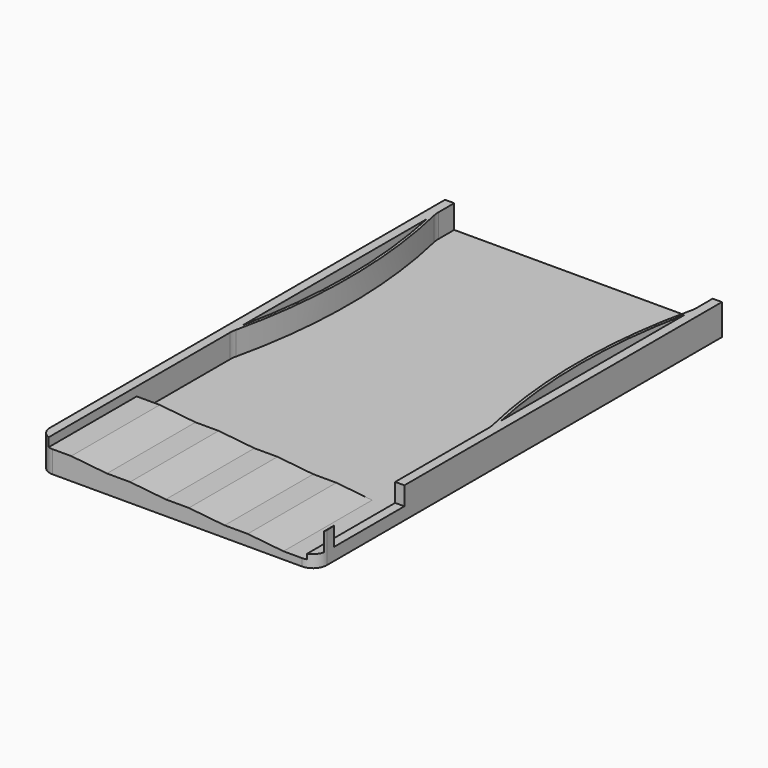
from build123d import *

# Parameters (mm, degrees)
F0_W      = 60
F0_H      = 110
F1_DEPTH  = 6.7
F2_W      = 56
F2_H      = 105
F3_DEPTH  = 5.1
F5_DEPTH  = 5.1
F6_R      = 3
F7_R      = 6
F9_DEPTH  = 19
F10_W     = 2
F10_H     = 19
F11_DEPTH = 4
F13_DEPTH = 25


with BuildPart() as f1:
    # F0 (on Top) → F1 (new body)
    with BuildSketch(Plane.XY):
        Rectangle(F0_W, F0_H)
    extrude(amount=F1_DEPTH)

    # F2 (on face) → F3 (cut)
    with BuildSketch(Plane.XY.offset(6.7)):
        with Locations((0, 2.5)):
            Rectangle(F2_W, F2_H)
    extrude(amount=-F3_DEPTH, mode=Mode.SUBTRACT)

    # F4 (on face) → F5 (join)
    with BuildSketch(Plane.XY.offset(1.6)):
        with BuildLine():
            Line((-28, -2.277589744), (-28, -5))
            ThreePointArc((-28, -5), (-24.8064638622, 22.5), (-28, 50))
            Line((-28, 50), (-28, 47.6836016319))
            ThreePointArc((-28, 47.6836016319), (-25.3710775237, 22.703005944), (-28, -2.277589744))
        make_face()
        with BuildLine():
            Line((28, 47.3302031996), (28, 50))
            ThreePointArc((28, 50), (24.8064638622, 22.5), (28, -5))
            Line((28, -5), (28, -2.2991948615))
            ThreePointArc((28, -2.2991948615), (25.4062635127, 22.515504169), (28, 47.3302031996))
        make_face()
    extrude(amount=F5_DEPTH)

    # F6
    f6_edges = [f1.edges().sort_by_distance(p)[0] for p in [
        (-30, -55, 3.35),
        (30, -55, 3.35),
    ]]
    fillet(f6_edges, radius=F6_R)

    # F7
    f7_edges = [f1.edges().sort_by_distance(p)[0] for p in [
        (28, -5, 4.15),
        (-28, -5, 4.15),
        (-28, 50, 4.15),
        (28, 50, 4.15),
    ]]
    fillet(f7_edges, radius=F7_R)

    # F8 (on face) → F9 (join)
    with BuildSketch(Plane(origin=(0, -50, 0), x_dir=(-1, 0, 0), z_dir=(0, 1, 0))):
        Polygon((-15.25, 2.4), (-23, 1.6), (28, 1.6), (28, 4.8), (23, 4.8), (15.25, 4), (10.25, 4), (2.5, 3.2), (-2.5, 3.2), (-10.25, 2.4), align=None)
    extrude(amount=F9_DEPTH)

    # F10 (on face) → F11 (cut)
    with BuildSketch(Plane.XY.offset(6.7)):
        with Locations((29, -40.5)):
            Rectangle(F10_W, F10_H)
    extrude(amount=-F11_DEPTH, mode=Mode.SUBTRACT)

    # F12 (on face) → F13 (cut)
    with BuildSketch(Plane(origin=(0, -50, 0), x_dir=(-1, 0, 0), z_dir=(0, 1, 0))):
        Polygon((23, 4.8), (28, 4.8), (28, 6.7), (-29.9160797831, 6.7), (-29.9160797831, 2.7), (-28, 2.7), (-28, 1.6), (-23, 1.6), (-15.25, 2.4), (-10.25, 2.4), (-2.5, 3.2), (2.5, 3.2), (10.25, 4), (15.25, 4), align=None)
    extrude(amount=-F13_DEPTH, mode=Mode.SUBTRACT)


solid = f1.part
